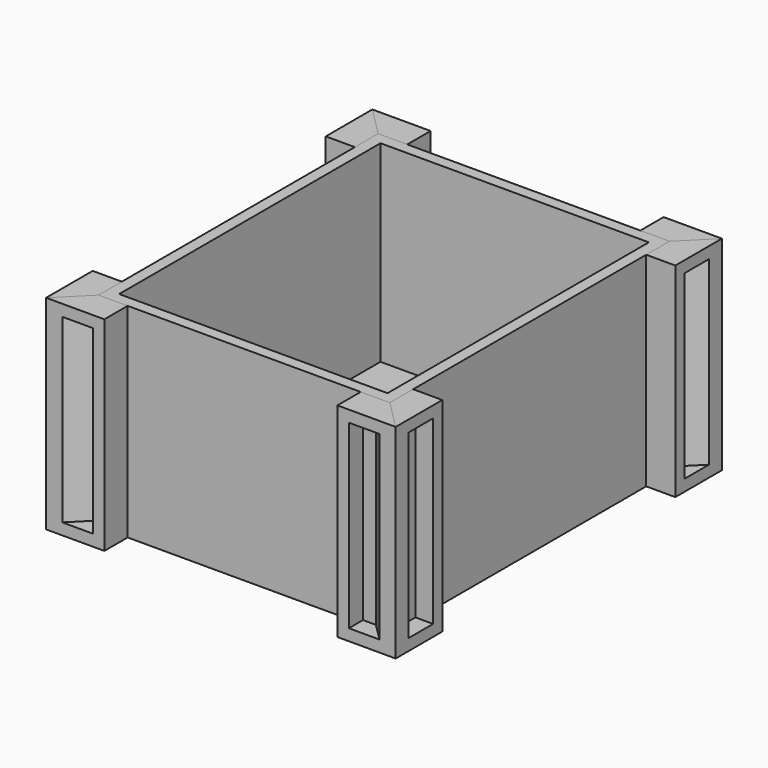
from build123d import *

# Parameters (mm, degrees)
F1_DEPTH = 44.45
F2_T     = -2.5
F3_DEPTH = 44.45
F4_DEPTH = 44.45
F5_T     = -2.5
F5_2_T   = -2.5
F6_T     = -2.5
F6_2_T   = -2.5
F6_3_T   = -2.5
F6_4_T   = -2.5
F6_5_T   = -2.5
F6_6_T   = -2.5


with BuildPart() as f1:
    # F0 (on Top) → F1 (new body)
    with BuildSketch(Plane.XY):
        Polygon((25.4, -38.1), (31.75, -38.1), (31.75, -31.75), (31.75, 31.75), (31.75, 38.1), (25.4, 38.1), (-25.4, 38.1), (-31.75, 38.1), (-31.75, 31.75), (-31.75, -31.75), (-31.75, -38.1), (-25.4, -38.1), align=None)
    extrude(amount=F1_DEPTH)

    # F2
    f2_openings = [f1.faces().sort_by_distance(p)[0] for p in [
        (0, 0, 44.45),
    ]]
    offset(amount=F2_T, openings=f2_openings)


with BuildPart() as f3:
    # F0 (on Top) → F3 (new body)
    with BuildSketch(Plane.XY):
        Polygon((25.4, 38.1), (31.75, 38.1), (38.1, 44.45), (25.4, 44.45), align=None)
    extrude(amount=F3_DEPTH)

    # F6
    f6_openings = [f3.faces().sort_by_distance(p)[0] for p in [
        (31.75, 44.45, 22.225),
    ]]
    offset(amount=F6_T, openings=f6_openings)


with BuildPart() as f3b:
    # F0 (on Top) → F3, piece 2 (new body)
    with BuildSketch(Plane.XY):
        Polygon((31.75, -31.75), (31.75, -38.1), (38.1, -44.45), (38.1, -31.75), align=None)
    extrude(amount=F3_DEPTH)

    # F5
    f5_openings = [f3b.faces().sort_by_distance(p)[0] for p in [
        (38.1, -38.1, 22.225),
    ]]
    offset(amount=F5_T, openings=f5_openings)


with BuildPart() as f3c:
    # F0 (on Top) → F3, piece 3 (new body)
    with BuildSketch(Plane.XY):
        Polygon((-38.1, -44.45), (-31.75, -38.1), (-31.75, -31.75), (-38.1, -31.75), align=None)
    extrude(amount=F3_DEPTH)

    # F6#6
    f6_6_openings = [f3c.faces().sort_by_distance(p)[0] for p in [
        (-38.1, -38.1, 22.225),
    ]]
    offset(amount=F6_6_T, openings=f6_6_openings)


with BuildPart() as f3d:
    # F0 (on Top) → F3, piece 4 (new body)
    with BuildSketch(Plane.XY):
        Polygon((-31.75, 38.1), (-25.4, 38.1), (-25.4, 44.45), (-38.1, 44.45), align=None)
    extrude(amount=F3_DEPTH)

    # F6#4
    f6_4_openings = [f3d.faces().sort_by_distance(p)[0] for p in [
        (-31.75, 44.45, 22.225),
    ]]
    offset(amount=F6_4_T, openings=f6_4_openings)


with BuildPart() as f4:
    # F0 (on Top) → F4 (new body)
    with BuildSketch(Plane.XY):
        Polygon((-38.1, 31.75), (-31.75, 31.75), (-31.75, 38.1), (-38.1, 44.45), align=None)
    extrude(amount=F4_DEPTH)

    # F6#3
    f6_3_openings = [f4.faces().sort_by_distance(p)[0] for p in [
        (-38.1, 38.1, 22.225),
    ]]
    offset(amount=F6_3_T, openings=f6_3_openings)


with BuildPart() as f4b:
    # F0 (on Top) → F4, piece 2 (new body)
    with BuildSketch(Plane.XY):
        Polygon((31.75, 38.1), (31.75, 31.75), (38.1, 31.75), (38.1, 44.45), align=None)
    extrude(amount=F4_DEPTH)

    # F6#2
    f6_2_openings = [f4b.faces().sort_by_distance(p)[0] for p in [
        (38.1, 38.1, 22.225),
    ]]
    offset(amount=F6_2_T, openings=f6_2_openings)


with BuildPart() as f4c:
    # F0 (on Top) → F4, piece 3 (new body)
    with BuildSketch(Plane.XY):
        Polygon((38.1, -44.45), (31.75, -38.1), (25.4, -38.1), (25.4, -44.45), align=None)
    extrude(amount=F4_DEPTH)

    # F5#2
    f5_2_openings = [f4c.faces().sort_by_distance(p)[0] for p in [
        (31.75, -44.45, 22.225),
    ]]
    offset(amount=F5_2_T, openings=f5_2_openings)


with BuildPart() as f4d:
    # F0 (on Top) → F4, piece 4 (new body)
    with BuildSketch(Plane.XY):
        Polygon((-25.4, -44.45), (-25.4, -38.1), (-31.75, -38.1), (-38.1, -44.45), align=None)
    extrude(amount=F4_DEPTH)

    # F6#5
    f6_5_openings = [f4d.faces().sort_by_distance(p)[0] for p in [
        (-31.75, -44.45, 22.225),
    ]]
    offset(amount=F6_5_T, openings=f6_5_openings)


solid = Compound([f1.part, f3.part, f3b.part, f3c.part, f3d.part, f4.part, f4b.part, f4c.part, f4d.part])
